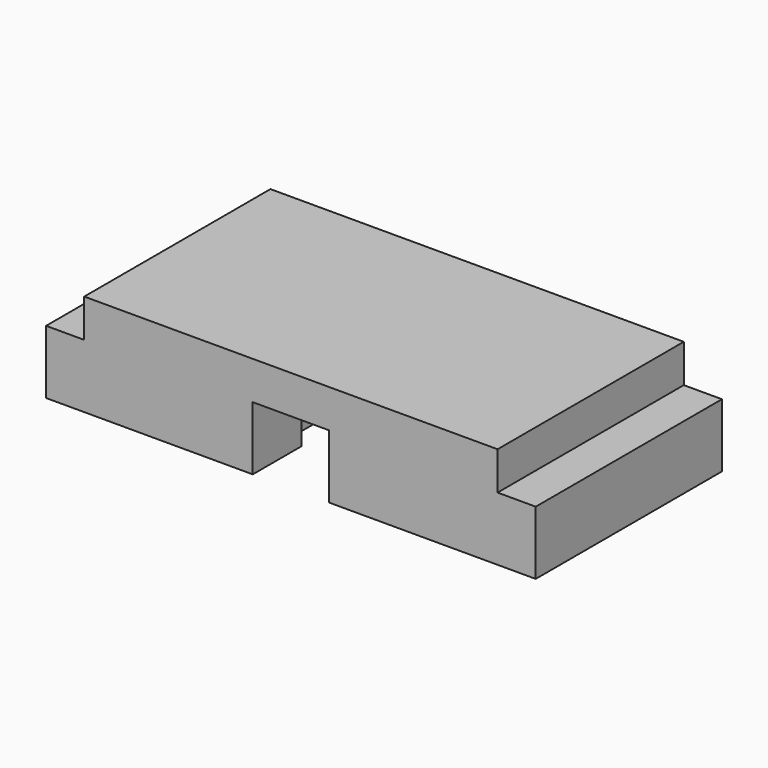
from build123d import *

# Parameters (mm, degrees)
PAD_DEPTH       = 18.3
POCKET_DEPTH    = 5
SKETCH004_W     = 5
SKETCH004_H     = 6
POCKET001_DEPTH = 2


with BuildPart() as part:
    # Sketch → Pad (new body)
    with BuildSketch(Plane.XZ):
        Polygon((-19.25, 0), (19.25, 0), (19.25, 5), (16.25, 5), (16.25, 8), (-16.25, 8), (-16.25, 5), (-19.25, 5), align=None)
    extrude(amount=PAD_DEPTH)

    # Sketch001 (on Face1 of Pad) → Pocket (cut)
    with BuildSketch(Plane(origin=(0, 0, 0), x_dir=(1, 0, 0), z_dir=(0, 0, -1))):
        Polygon((4.25, 13.5), (4.25, 6), (-4.25, 6), (-4.25, 13.5), (-3, 13.5), (-3, 18.5), (3, 18.5), (3, 13.5), align=None)
    extrude(amount=-POCKET_DEPTH, mode=Mode.SUBTRACT)

    # Sketch003 → Groove (revolve, cut)
    with BuildSketch(Plane.YZ):
        Polygon((0, 2.5), (0, 5), (-5, 5), (-5, 5.5), (-6, 5.5), (-6, 2.5), align=None)
    revolve(axis=Axis((0, 0, 2.5), (0, -1, 0)), mode=Mode.SUBTRACT)

    # Sketch004 (on Face1 of Groove) → Pocket001 (cut)
    with BuildSketch(Plane(origin=(0, 0, 0), x_dir=(1, 0, 0), z_dir=(0, 0, -1))):
        with Locations((0, 3)):
            Rectangle(SKETCH004_W, SKETCH004_H)
    extrude(amount=-POCKET001_DEPTH, mode=Mode.SUBTRACT)


solid = part.part
